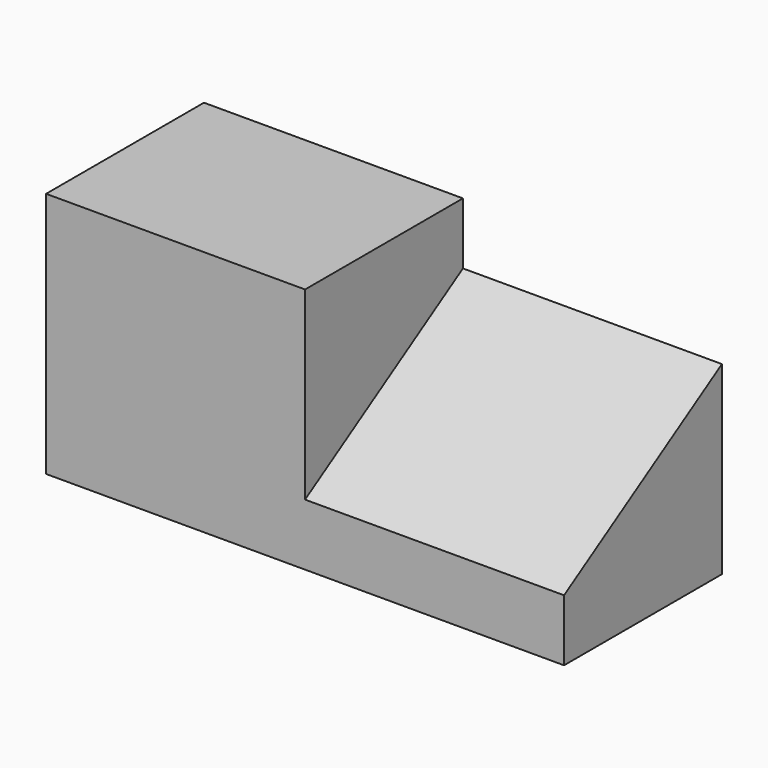
from build123d import *

# Parameters (mm, degrees)
F0_W     = 66.675
F0_H     = 63.5
F1_DEPTH = 50.8
F3_DEPTH = 66.675


with BuildPart() as f1:
    # F0 (on Front) → F1 (new body)
    with BuildSketch(Plane.XZ):
        with Locations((33.3375, 31.75)):
            Rectangle(F0_W, F0_H)
    extrude(amount=F1_DEPTH)

    # F2 (on face) → F3 (join)
    with BuildSketch(Plane.YZ.offset(66.675)):
        Polygon((-50.8, 15.875), (-50.8, 0), (0, 0), (0, 47.625), align=None)
    extrude(amount=F3_DEPTH)


solid = f1.part
